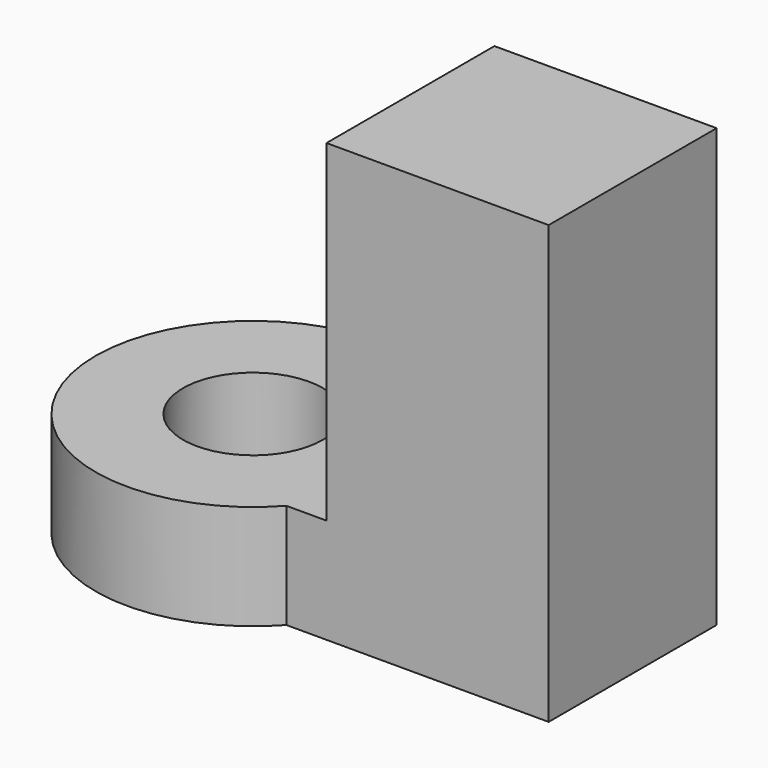
from build123d import *

# Parameters (mm, degrees)
F0_R     = 4
F1_DEPTH = 6
F2_DEPTH = 6
F0_W     = 12.7
F0_H     = 6
F3_DEPTH = 25


with BuildPart() as f1:
    # F0 (on Top) → F1 (new body)
    with BuildSketch(Plane.XY):
        with BuildLine():
            ThreePointArc((-14.991796, -6), (-13.292449, -3.211399), (-12.7, 0))
            ThreePointArc((-12.7, 0), (-13.292449, 3.211399), (-14.991796, 6))
            ThreePointArc((-14.991796, 6), (-30.7, 0), (-14.991796, -6))
        make_face()
        with Locations((-21.7, 0)):
            Circle(F0_R, mode=Mode.SUBTRACT)
    extrude(amount=F1_DEPTH)

    # F0 (on Top) → F2 (join)
    with BuildSketch(Plane.XY):
        with BuildLine():
            Line((-12.7, -6), (-12.7, 0))
            ThreePointArc((-12.7, 0), (-13.292449, -3.211399), (-14.991796, -6))
            Line((-14.991796, -6), (-12.7, -6))
        make_face()
        with BuildLine():
            ThreePointArc((-14.991796, 6), (-13.292449, 3.211399), (-12.7, 0))
            Line((-12.7, 0), (-12.7, 6))
            Line((-12.7, 6), (-14.991796, 6))
        make_face()
    extrude(amount=F2_DEPTH)

    # F0 (on Top) → F3 (join)
    with BuildSketch(Plane.XY):
        with Locations((-6.35, -3)):
            Rectangle(F0_W, F0_H)
        with Locations((-6.35, 3)):
            Rectangle(F0_W, F0_H)
    extrude(amount=F3_DEPTH)


solid = f1.part
